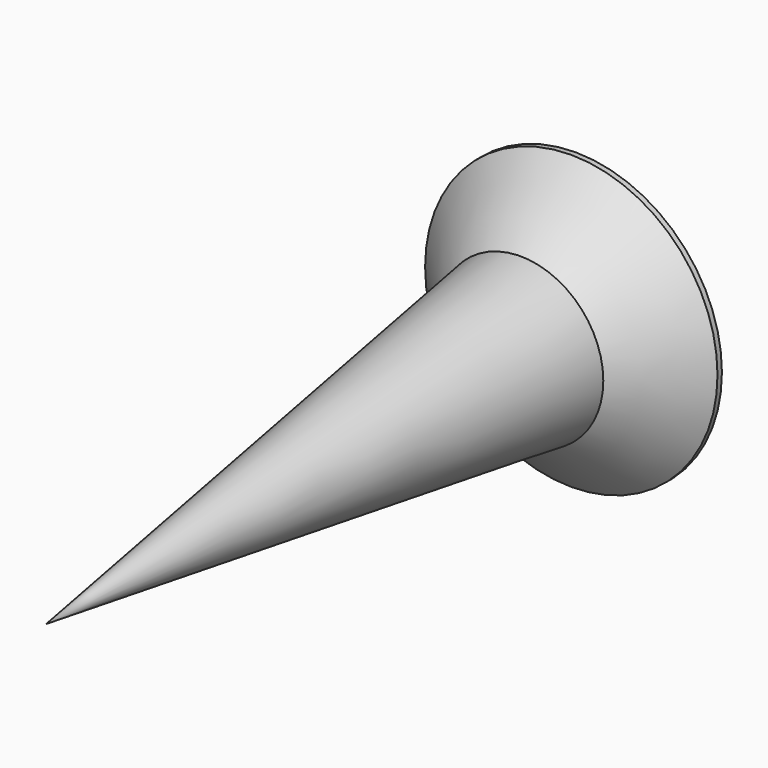
from build123d import *

# Parameters (mm, degrees)
POCKET022_DEPTH         = 0.3
POLARPATTERN004_COUNT   = 2
POLARPATTERN004_ANGLE   = 90
BODY019_PLACEMENT_ANGLE = 90


with BuildPart() as part:
    # Sketch099 → Revolution007 (revolve)
    with BuildSketch(Plane.XZ):
        Polygon((0, 0), (0, -12), (1.5, -1.25), (2.65, -0.1), (2.65, 0), align=None)
    revolve(axis=Axis((0, 0, 0), (0, 0, 1)))

    # Sketch098 → Pocket022 (cut, symmetric)
    with BuildSketch(Plane.XZ):
        Polygon((-2, 0), (0, -2), (2, 0), align=None)
    pocket022 = extrude(amount=POCKET022_DEPTH, both=True, mode=Mode.SUBTRACT)

    # PolarPattern004: Pocket022 ×2 about axis
    polarpattern004_axis = Axis((0, 0, 0), (0, 0, 1))
    for i in range(1, POLARPATTERN004_COUNT):
        add(pocket022.rotate(polarpattern004_axis, i * POLARPATTERN004_ANGLE / (POLARPATTERN004_COUNT - 1)), mode=Mode.SUBTRACT)


with BuildPart() as part_1:
    # Body019 placement: moved
    add(part.part.moved(Location((40, -5.8, -30))).rotate(Axis((40, -5.8, -30), (-1, 0, 0)), BODY019_PLACEMENT_ANGLE))


solid = part_1.part
